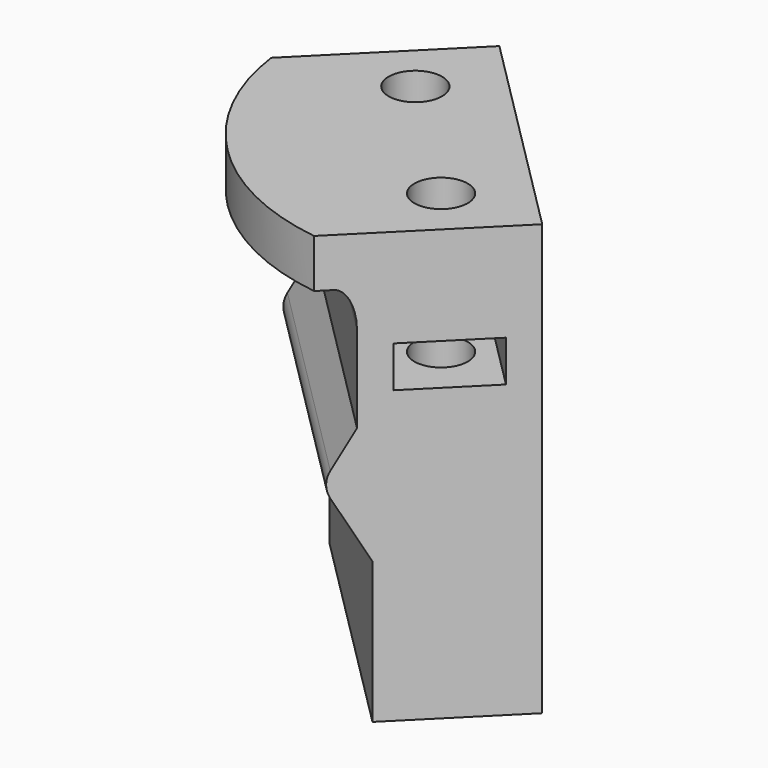
from build123d import *

# Parameters (mm, degrees)
PAD022_DEPTH            = 12.5
SKETCH043_R             = 2.2
POCKET007_DEPTH         = 35.501
POCKET098_DEPTH         = 3.4
BODY022_PLACEMENT_ANGLE = 45


with BuildPart() as part:
    # Sketch042 → Pad022 (new body, symmetric)
    with BuildSketch(Plane.YZ):
        with BuildLine():
            Line((-1, 28.5), (-1, 21.385113))
            Line((-1, 21.385113), (-2.732051, 18.385113))
            ThreePointArc((-2.732051, 18.385113), (-3, 17.385113), (-2.732051, 16.385113))
            Line((-2.732051, 16.385113), (0, 11.653062))
            Line((0, 11.653062), (0, 0))
            Line((0, 0), (11, 0))
            Line((11, 0), (11, 35.5))
            Line((11, 35.5), (-8, 35.5))
            Line((-8, 35.5), (-8, 31.5))
            Line((-8, 31.5), (-2.5, 31.5))
            add(Edge.make_bspline(
                [(-1, 28.5), (-1, 31.5), (-2.5, 31.5)],
                knots=[4.712389, 4.712389, 4.712389, 6.283185, 6.283185, 6.283185], degree=2, weights=[1, 0.707107, 1]))
        make_face()
    extrude(amount=PAD022_DEPTH, both=True)

    # Sketch043 → Pocket007 (cut, through all)
    with BuildSketch(Plane.XY):
        with Locations((-7.5, 5)):
            Circle(SKETCH043_R)
        with Locations((7.5, 5)):
            Circle(SKETCH043_R)
        with BuildLine():
            ThreePointArc((-12.5, -3.784326), (0, -8), (12.5, -3.784326))
            Line((12.5, -3.784326), (13.5, -3.784326))
            Line((13.5, -3.784326), (13.5, -9))
            Line((-13.5, -9), (13.5, -9))
            Line((-13.5, -3.784326), (-13.5, -9))
            Line((-12.5, -3.784326), (-13.5, -3.784326))
        make_face()
    extrude(amount=POCKET007_DEPTH, mode=Mode.SUBTRACT)

    # Sketch150 → Pocket098 (cut)
    with BuildSketch(Plane.XY.offset(24)):
        Polygon((-5.392672, 1.35), (-3.285343, 5), (-5.392672, 8.65), (-13.5, 8.65), (-13.5, 1.35), align=None)
        Polygon((5.392672, 8.65), (3.285343, 5), (5.392672, 1.35), (13.5, 1.35), (13.5, 8.65), align=None)
    extrude(amount=POCKET098_DEPTH, mode=Mode.SUBTRACT)


with BuildPart() as part_1:
    # Body022 placement: moved
    add(part.part.moved(Location((72.831998, 72.831998, -31))).rotate(Axis((72.831998, 72.831998, -31), (0, 0, -1)), BODY022_PLACEMENT_ANGLE))


solid = part_1.part
